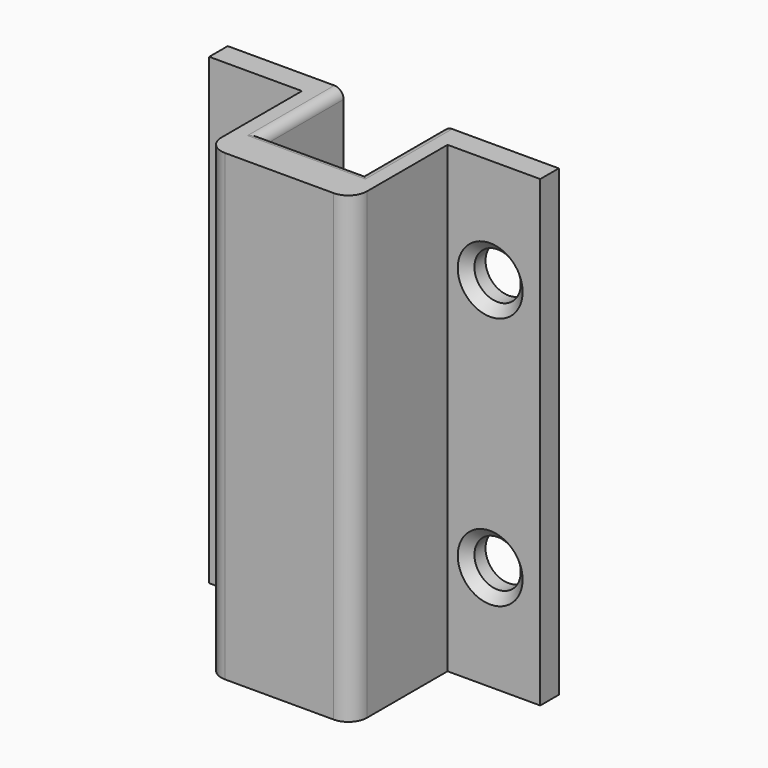
from build123d import *

# Parameters (mm, degrees)
F1_DEPTH = 63.5
F2_R     = 3.048
F3_DEPTH = 2.9972
F5_R     = 3.175
F4_R     = 3.175
F6_DEPTH = 25.4
F7_SIZE  = 1.27
F8_R     = 2.54
F9_R     = 1.27


with BuildPart() as f1:
    # F0 (on Top) → F1 (new body)
    with BuildSketch(Plane.XY):
        Polygon((4.5752139781, 0), (-9.0290260219, 0), (-9.0290260219, 13.59535), (-24.9040260219, 13.59535), (-24.9040260219, 10.42035), (-12.2040260219, 10.42035), (-12.2040260219, -5.92963), (7.7502139781, -5.92963), (7.7502139781, 10.42035), (20.4502139781, 10.42035), (20.4502139781, 13.59535), (4.5752139781, 13.59535), align=None)
    extrude(amount=F1_DEPTH)

    # F2 (on face) → F3 (cut)
    with BuildSketch(Plane(origin=(0, 0, 0), x_dir=(-1, 0, 0), z_dir=(0, 1, 0))):
        with Locations((2.2269060219, 31.75)):
            Circle(F2_R)
    extrude(amount=-F3_DEPTH, mode=Mode.SUBTRACT)

    # F5 (on face) + F4 (on face) → F6 (cut)
    with BuildSketch(Plane(origin=(0, 13.59535, 0), x_dir=(-1, 0, 0), z_dir=(0, 1, 0))):
        with Locations((-13.5922139781, 49.0982)):
            Circle(F5_R)
        with Locations((-13.5922139781, 14.4018)):
            Circle(F5_R)
    with BuildSketch(Plane(origin=(0, 13.59535, 0), x_dir=(-1, 0, 0), z_dir=(0, 1, 0))):
        with Locations((18.0460260219, 49.0982)):
            Circle(F4_R)
        with Locations((18.0460260219, 14.4018)):
            Circle(F4_R)
    extrude(amount=-F6_DEPTH, mode=Mode.SUBTRACT)

    # F7
    f7_edges = [f1.edges().sort_by_distance(p)[0] for p in [
        (-14.871026, 10.42035, 49.0982),
        (-14.871026, 10.42035, 14.4018),
        (16.767214, 10.42035, 49.0982),
        (16.767214, 10.42035, 14.4018),
    ]]
    chamfer(f7_edges, length=F7_SIZE)

    # F8
    f8_edges = [f1.edges().sort_by_distance(p)[0] for p in [
        (7.750214, -5.92963, 31.75),
        (-12.204026, -5.92963, 31.75),
    ]]
    fillet(f8_edges, radius=F8_R)

    # F9
    f9_edges = [f1.edges().sort_by_distance(p)[0] for p in [
        (-9.029026, 6.797675, 63.5),
        (4.575214, 6.797675, 63.5),
        (-2.226906, 0, 63.5),
    ]]
    fillet(f9_edges, radius=F9_R)


solid = f1.part
